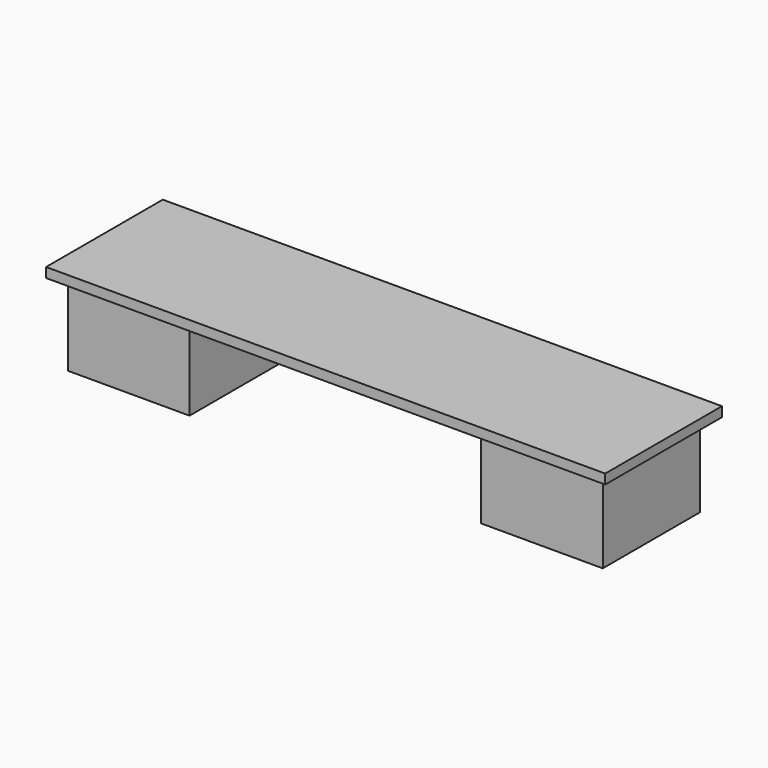
from build123d import *

# Parameters (mm, degrees)
F1_DEPTH = 2
F2_DEPTH = 19


with BuildPart() as f1:
    # F0 (on Top) → F1 (new body)
    with BuildSketch(Plane.XY):
        Polygon((55.150597, 21.266447), (-59.849403, 21.266447), (-59.849403, 6.266447), (-57.349403, 6.266447), (-57.349403, 18.766447), (-32.349403, 18.766447), (-32.349403, 6.266447), (27.650597, 6.266447), (27.650597, 18.766447), (52.650597, 18.766447), (52.650597, 6.266447), (55.150597, 6.266447), align=None)
        Polygon((-57.349403, 6.266447), (-59.849403, 6.266447), (-59.849403, -8.733553), (55.150597, -8.733553), (55.150597, 6.266447), (52.650597, 6.266447), (52.650597, -6.233553), (27.650597, -6.233553), (27.650597, 6.266447), (-32.349403, 6.266447), (-32.349403, -6.233553), (-57.349403, -6.233553), align=None)
        Polygon((-57.349403, 18.766447), (-57.349403, 6.266447), (-44.849403, 6.266447), (-32.349403, 6.266447), (-32.349403, 18.766447), align=None)
        Polygon((-44.849403, 6.266447), (-57.349403, 6.266447), (-57.349403, -6.233553), (-32.349403, -6.233553), (-32.349403, 6.266447), align=None)
        Polygon((40.150597, 6.266447), (52.650597, 6.266447), (52.650597, 18.766447), (27.650597, 18.766447), (27.650597, 6.266447), align=None)
        Polygon((52.650597, -6.233553), (52.650597, 6.266447), (40.150597, 6.266447), (27.650597, 6.266447), (27.650597, -6.233553), align=None)
    extrude(amount=-F1_DEPTH)

    # F0 (on Top) → F2 (join)
    with BuildSketch(Plane.XY):
        Polygon((-44.849403, 6.266447), (-57.349403, 6.266447), (-57.349403, -6.233553), (-32.349403, -6.233553), (-32.349403, 6.266447), align=None)
        Polygon((-57.349403, 18.766447), (-57.349403, 6.266447), (-44.849403, 6.266447), (-32.349403, 6.266447), (-32.349403, 18.766447), align=None)
        Polygon((40.150597, 6.266447), (52.650597, 6.266447), (52.650597, 18.766447), (27.650597, 18.766447), (27.650597, 6.266447), align=None)
        Polygon((52.650597, -6.233553), (52.650597, 6.266447), (40.150597, 6.266447), (27.650597, 6.266447), (27.650597, -6.233553), align=None)
    extrude(amount=-F2_DEPTH)


solid = f1.part
